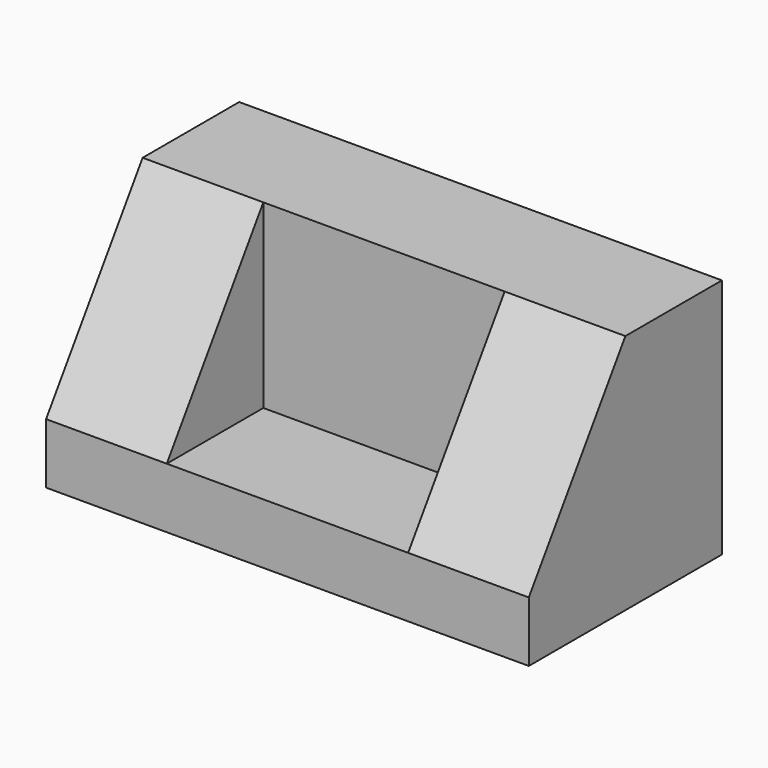
from build123d import *

# Parameters (mm, degrees)
F0_W     = 203.2
F0_H     = 101.6
F1_DEPTH = 101.6
F2_W     = 101.6
F2_H     = 76.2
F3_DEPTH = 50.8
F5_DEPTH = 203.2


with BuildPart() as f1:
    # F0 (on Top) → F1 (new body)
    with BuildSketch(Plane.XY):
        with Locations((-25.058964, 16.669859)):
            Rectangle(F0_W, F0_H)
    extrude(amount=F1_DEPTH)

    # F2 (on face) → F3 (cut)
    with BuildSketch(Plane.XZ.offset(34.130141)):
        with Locations((-25.058964, 63.5)):
            Rectangle(F2_W, F2_H)
    extrude(amount=-F3_DEPTH, mode=Mode.SUBTRACT)

    # F4 (on face) → F5 (cut)
    with BuildSketch(Plane.YZ.offset(76.541036)):
        Polygon((-34.130141, 101.6), (-34.130141, 25.4), (16.669859, 101.6), align=None)
    extrude(amount=-F5_DEPTH, mode=Mode.SUBTRACT)


solid = f1.part
